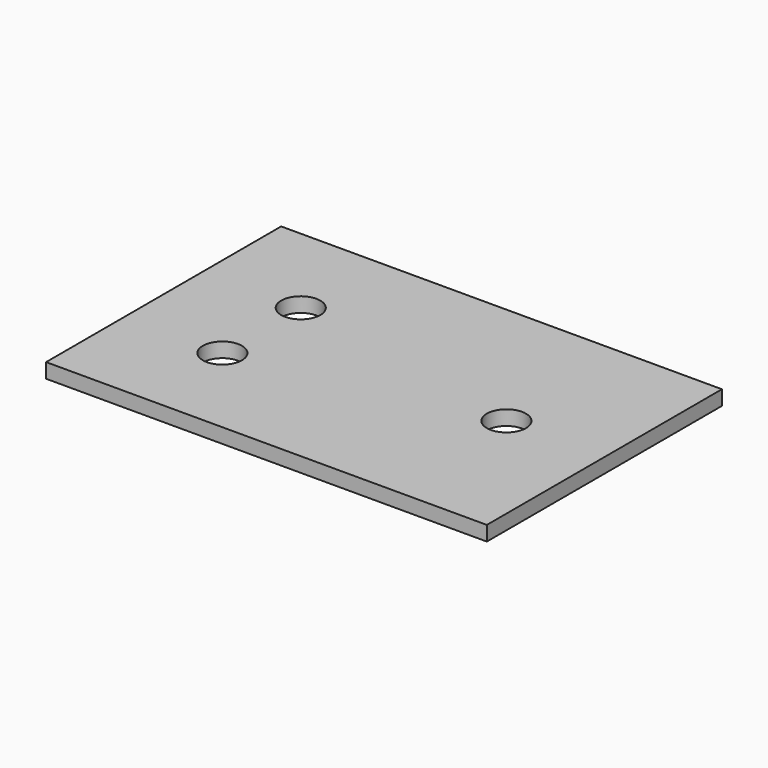
from build123d import *

# Parameters (mm, degrees)
F0_W     = 45
F0_H     = 30
F0_R     = 2
F1_DEPTH = 1.5


with BuildPart() as f1:
    # F0 (on Top) → F1 (new body)
    with BuildSketch(Plane.XY):
        with Locations((-22.5, 15)):
            Rectangle(F0_W, F0_H)
        with Locations((-35, 10)):
            Circle(F0_R, mode=Mode.SUBTRACT)
        with Locations((-35, 20)):
            Circle(F0_R, mode=Mode.SUBTRACT)
        with Locations((-10, 15)):
            Circle(F0_R, mode=Mode.SUBTRACT)
    extrude(amount=F1_DEPTH)


solid = f1.part
